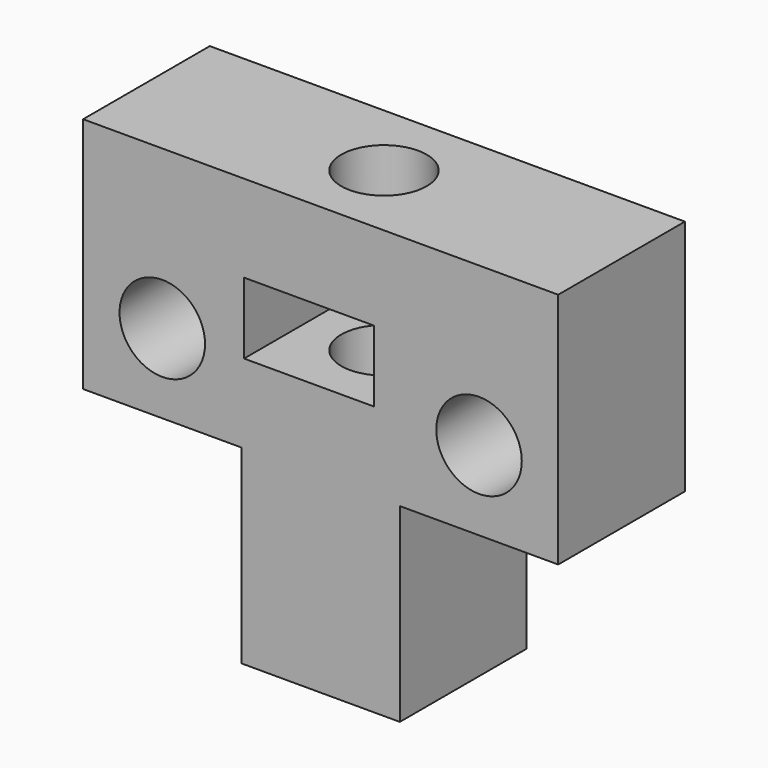
from build123d import *

# Parameters (mm, degrees)
SKETCH_AS_DRAWN_W              = 30
SKETCH_AS_DRAWN_H              = 15
SKETCH_AS_DRAWN_R              = 2.7
EXTRUDE_DEPTH                  = 10
EXTRUDE_ONTO_SKETCH_ROLL_ANGLE = 90
SKETCH001_R                    = 2.7
POCKET_DEPTH                   = 15.001
SKETCH002_W                    = 8.2
SKETCH002_H                    = 4.5
POCKET001_DEPTH                = 10.001
SKETCH003_W                    = 10
SKETCH003_H                    = 10
PAD_DEPTH                      = 12
SKETCH004_R                    = 2.7
POCKET002_DEPTH                = 27.001


with BuildPart() as part:
    # Sketch as drawn → Extrude (new)
    with BuildSketch(Plane.XY):
        with Locations((15, 7.5)):
            Rectangle(SKETCH_AS_DRAWN_W, SKETCH_AS_DRAWN_H)
        with Locations((5, 5)):
            Circle(SKETCH_AS_DRAWN_R, mode=Mode.SUBTRACT)
        with Locations((25, 5)):
            Circle(SKETCH_AS_DRAWN_R, mode=Mode.SUBTRACT)
    extrude(amount=-EXTRUDE_DEPTH)


with BuildPart() as part_1:
    # Extrude onto Sketch roll: moved
    add(part.part.rotate(Axis((0, 0, 0), (1, 0, 0)), EXTRUDE_ONTO_SKETCH_ROLL_ANGLE))


with BuildPart() as part_2:
    # Extrude onto Sketch placement: moved
    add(part_1.part)

    # Sketch001 → Pocket (cut, through all)
    with BuildSketch(Plane.XY.offset(15)):
        with Locations((15, 5)):
            Circle(SKETCH001_R)
    extrude(amount=-POCKET_DEPTH, mode=Mode.SUBTRACT)

    # Sketch002 → Pocket001 (cut, through all)
    with BuildSketch(Plane.XZ):
        with Locations((14.263317, 7.25)):
            Rectangle(SKETCH002_W, SKETCH002_H)
    extrude(amount=-POCKET001_DEPTH, mode=Mode.SUBTRACT)

    # Sketch003 → Pad (new body)
    with BuildSketch(Plane(origin=(0, 0, 0), x_dir=(1, 0, 0), z_dir=(0, 0, -1))):
        with Locations((15, -5)):
            Rectangle(SKETCH003_W, SKETCH003_H)
    extrude(amount=PAD_DEPTH)

    # Sketch004 → Pocket002 (cut, through all)
    with BuildSketch(Plane(origin=(0, 0, -12), x_dir=(1, 0, 0), z_dir=(0, 0, -1))):
        with Locations((15, -5)):
            Circle(SKETCH004_R)
    extrude(amount=-POCKET002_DEPTH, mode=Mode.SUBTRACT)


solid = part_2.part
